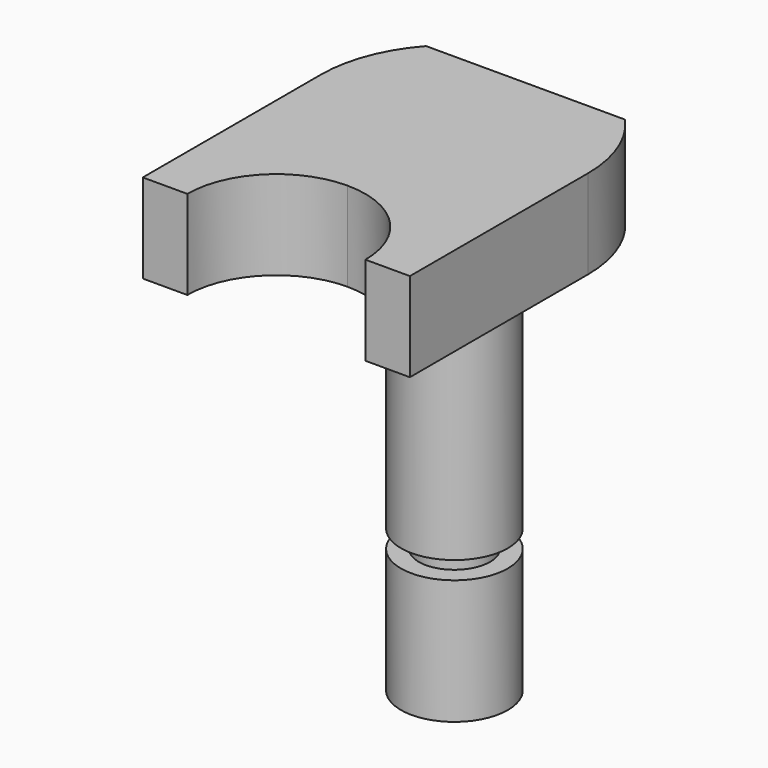
from build123d import *

# Parameters (mm, degrees)
F1_DEPTH = 5
F2_R     = 3
F3_DEPTH = 15
F4_R     = 2
F5_DEPTH = 1
F6_R     = 3
F6_R_2   = 2
F7_DEPTH = 7


with BuildPart() as f1:
    # F0 (on Top) → F1 (new body)
    with BuildSketch(Plane.XY):
        with BuildLine():
            ThreePointArc((0, -7.5), (5.3033008589, -5.3033008589), (7.5, 0))
            ThreePointArc((7.5, 0), (7.0062926922, 2.6761656733), (5.5901699437, 5))
            Line((5.5901699437, 5), (-5.5901699437, 5))
            ThreePointArc((-5.5901699437, 5), (-7.0062926922, 2.6761656733), (-7.5, 0))
            ThreePointArc((-7.5, 0), (-5.3033008589, -5.3033008589), (0, -7.5))
        make_face()
        with BuildLine():
            Line((7.5, -7.5), (7.5, 0))
            ThreePointArc((7.5, 0), (5.3033008589, -5.3033008589), (0, -7.5))
            Line((0, -7.5), (7.5, -7.5))
        make_face()
        with BuildLine():
            Line((-7.5, -7.5), (0, -7.5))
            ThreePointArc((0, -7.5), (-5.3033008589, -5.3033008589), (-7.5, 0))
            Line((-7.5, 0), (-7.5, -7.5))
        make_face()
        with BuildLine():
            Line((7.5, -7.5), (0, -7.5))
            ThreePointArc((0, -7.5), (3.5355339059, -8.9644660941), (5, -12.5))
            Line((5, -12.5), (7.5, -12.5))
            Line((7.5, -12.5), (7.5, -7.5))
        make_face()
        with BuildLine():
            ThreePointArc((-5, -12.5), (-3.5355339059, -8.9644660941), (0, -7.5))
            Line((0, -7.5), (-7.5, -7.5))
            Line((-7.5, -7.5), (-7.5, -12.5))
            Line((-7.5, -12.5), (-5, -12.5))
        make_face()
    extrude(amount=F1_DEPTH)

    # F2 (on face) → F3 (join)
    with BuildSketch(Plane(origin=(0, 0, 0), x_dir=(1, 0, 0), z_dir=(0, 0, -1))):
        Circle(F2_R)
    extrude(amount=F3_DEPTH)

    # F4 (on face) → F5 (join)
    with BuildSketch(Plane(origin=(0, 0, -15), x_dir=(1, 0, 0), z_dir=(0, 0, -1))):
        Circle(F4_R)
    extrude(amount=F5_DEPTH)

    # F6 (on face) → F7 (join)
    with BuildSketch(Plane(origin=(0, 0, -16), x_dir=(1, 0, 0), z_dir=(0, 0, -1))):
        Circle(F6_R)
        Circle(F6_R_2, mode=Mode.SUBTRACT)
        Circle(F6_R_2)
    extrude(amount=F7_DEPTH)


solid = f1.part
